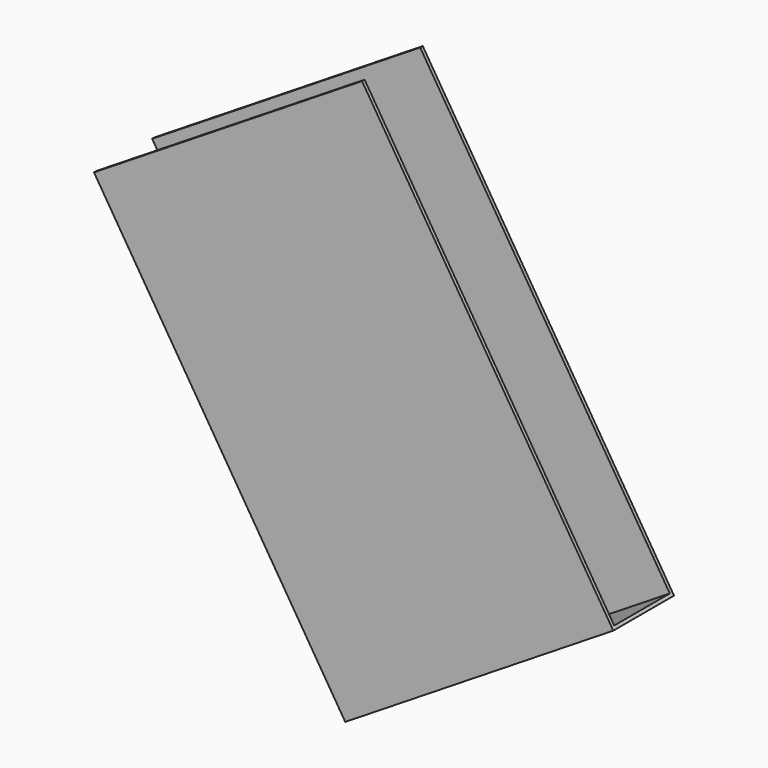
from build123d import *

# Parameters (mm, degrees)
BOX161_W           = 5
BOX161_H           = 7.45
BOX161_DEPTH       = 1.1
BOX160_W           = 5
BOX160_H           = 7.5
BOX160_DEPTH       = 1.2
CUT078_ROLL_ANGLE  = -90
CUT078_PITCH_ANGLE = -32


with BuildPart() as small_cu_gnd_electrode066:
    # Box161 → Box161 (new body)
    with BuildSketch(Plane.XY.offset(0.05)):
        with Locations((2.5, 3.725)):
            Rectangle(BOX161_W, BOX161_H)
    extrude(amount=BOX161_DEPTH)


with BuildPart() as small_cu_electrode001_long_axis_v007:
    # Box160 → Box160 (new body)
    with BuildSketch(Plane.XY):
        with Locations((2.5, 3.75)):
            Rectangle(BOX160_W, BOX160_H)
    extrude(amount=BOX160_DEPTH)

    # Cut078: cut Small Cu GND Electrode066
    add(small_cu_gnd_electrode066.part, mode=Mode.SUBTRACT)


with BuildPart() as small_cu_electrode001_long_axis_v007_1:
    # Cut078 roll: moved
    add(small_cu_electrode001_long_axis_v007.part.rotate(Axis((0, 0, 0), (1, 0, 0)), CUT078_ROLL_ANGLE))


with BuildPart() as small_cu_electrode001_long_axis_v007_2:
    # Cut078 pitch: moved
    add(small_cu_electrode001_long_axis_v007_1.part.rotate(Axis((0, 0, 0), (0, 1, 0)), CUT078_PITCH_ANGLE))


with BuildPart() as small_cu_electrode001_long_axis_v007_3:
    # Cut078 placement: moved
    add(small_cu_electrode001_long_axis_v007_2.part.moved(Location((6.020438, 2.14, 45.877147))))


solid = small_cu_electrode001_long_axis_v007_3.part
